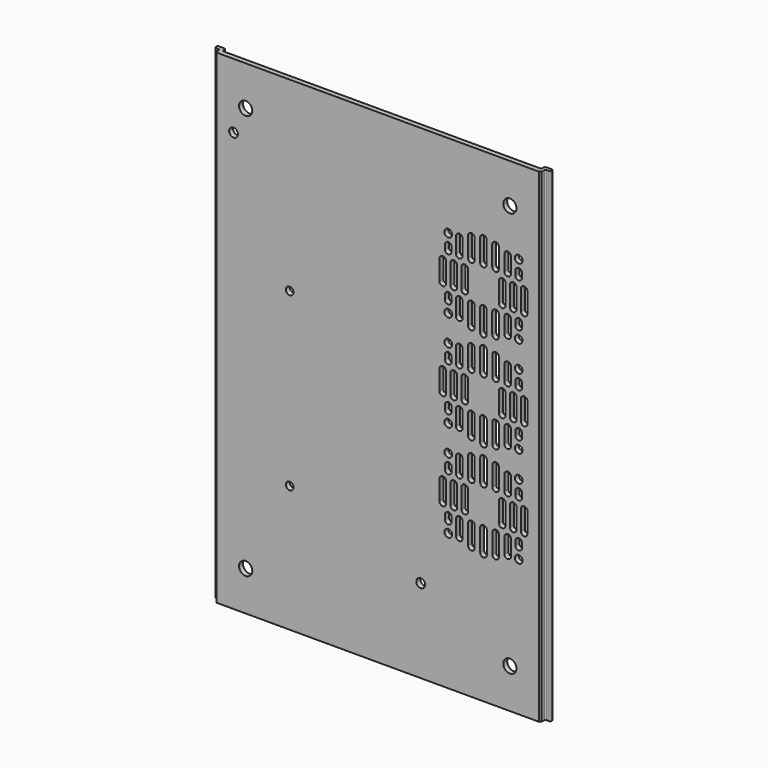
from build123d import *

# Parameters (mm, degrees)
PAD002_DEPTH    = 110
SKETCH005_R     = 2
SKETCH005_R_2   = 1.75
POCKET002_DEPTH = 2.251
SKETCH006_R     = 1.75
POCKET003_DEPTH = 5
SKETCH007_R     = 3
POCKET004_DEPTH = 5


with BuildPart() as part:
    # Sketch002 → Pad002 (new body, symmetric)
    with BuildSketch(Plane.XY):
        with BuildLine():
            Line((-72.340626, 3.292676), (-72.340626, 2.75))
            ThreePointArc((-72.340626, 2.75), (-72.194179, 2.396447), (-71.840626, 2.25))
            Line((-71.840626, 2.25), (71.960626, 2.25))
            ThreePointArc((71.960626, 2.25), (72.314179, 2.396447), (72.460626, 2.75))
            Line((72.460626, 2.75), (72.460626, 3.292676))
            ThreePointArc((73.460626, 4.292676), (72.753519, 3.999783), (72.460626, 3.292676))
            Line((73.460626, 4.292676), (75.76208, 4.292676))
            ThreePointArc((76.26208, 3.792676), (76.115633, 4.14623), (75.76208, 4.292676))
            Line((76.26208, 3.792676), (76.26208, 3.150519))
            ThreePointArc((75.76208, 2.650519), (76.115633, 2.796966), (76.26208, 3.150519))
            Line((75.76208, 2.650519), (74.460626, 2.650519))
            ThreePointArc((74.460626, 2.650519), (74.107073, 2.504072), (73.960626, 2.150519))
            Line((73.960626, 2.150519), (73.960626, 0.635))
            ThreePointArc((73.960626, 0.635), (73.511613, 0.449013), (73.325626, 0))
            Line((73.325626, 0), (-73.205626, 0))
            ThreePointArc((-73.205626, 0), (-73.391613, 0.449013), (-73.840626, 0.635))
            Line((-73.840626, 0.635), (-73.840626, 2.150519))
            ThreePointArc((-73.840626, 2.150519), (-73.987073, 2.504072), (-74.340626, 2.650519))
            Line((-74.340626, 2.650519), (-75.64208, 2.650519))
            ThreePointArc((-76.14208, 3.150519), (-75.995633, 2.796966), (-75.64208, 2.650519))
            Line((-76.14208, 3.150519), (-76.14208, 3.792676))
            ThreePointArc((-75.64208, 4.292676), (-75.995633, 4.14623), (-76.14208, 3.792676))
            Line((-75.64208, 4.292676), (-73.340626, 4.292676))
            ThreePointArc((-72.340626, 3.292676), (-72.633519, 3.999783), (-73.340626, 4.292676))
        make_face()
    extrude(amount=PAD002_DEPTH, both=True)

    # Sketch005 (on Face3 of Pad002) → Pocket002 (cut, through all)
    with BuildSketch(Plane(origin=(0, 2.25, 0), x_dir=(-1, 0, 0), z_dir=(0, 1, 0))):
        with Locations((-19.5, -72)):
            Circle(SKETCH005_R)
        with Locations((65.5, 80.5)):
            Circle(SKETCH005_R)
        with Locations((40, -52.5)):
            Circle(SKETCH005_R_2)
        with Locations((40, 25.5)):
            Circle(SKETCH005_R_2)
    extrude(amount=-POCKET002_DEPTH, mode=Mode.SUBTRACT)

    # Sketch006 (on Face7 of Pocket002) → Pocket003 (cut)
    with BuildSketch(Plane(origin=(0, 2.25, 0), x_dir=(-1, 0, 0), z_dir=(0, 1, 0))):
        with Locations((-64, 72)):
            Circle(SKETCH006_R)
        with Locations((-32, 72)):
            Circle(SKETCH006_R)
        with Locations((-32, 40)):
            Circle(SKETCH006_R)
        with Locations((-64, 40)):
            Circle(SKETCH006_R)
        with Locations((-64.016083, 28)):
            Circle(SKETCH006_R)
        with Locations((-32.016083, 28)):
            Circle(SKETCH006_R)
        with Locations((-32.016083, -4)):
            Circle(SKETCH006_R)
        with Locations((-64.016083, -4)):
            Circle(SKETCH006_R)
        with Locations((-64.032166, -16)):
            Circle(SKETCH006_R)
        with Locations((-32.032166, -16)):
            Circle(SKETCH006_R)
        with Locations((-32.032166, -48)):
            Circle(SKETCH006_R)
        with Locations((-64.032166, -48)):
            Circle(SKETCH006_R)
        with BuildLine():
            ThreePointArc((-65, 60.5), (-66.5, 62), (-68, 60.5))
            Line((-68, 60.5), (-68, 51.5))
            ThreePointArc((-68, 51.5), (-66.5, 50), (-65, 51.5))
            Line((-65, 60.5), (-65, 51.5))
        make_face()
        with BuildLine():
            ThreePointArc((-60, 60.5), (-61.5, 62), (-63, 60.5))
            Line((-63, 60.5), (-63, 51.5))
            ThreePointArc((-63, 51.5), (-61.5, 50), (-60, 51.5))
            Line((-60, 60.5), (-60, 51.5))
        make_face()
        with BuildLine():
            ThreePointArc((-55, 60.5), (-56.5, 62), (-58, 60.5))
            Line((-58, 60.5), (-58, 51.5))
            ThreePointArc((-58, 51.5), (-56.5, 50), (-55, 51.5))
            Line((-55, 60.5), (-55, 51.5))
        make_face()
        with BuildLine():
            ThreePointArc((-38, 60.5), (-39.5, 62), (-41, 60.5))
            Line((-41, 60.5), (-41, 51.5))
            ThreePointArc((-41, 51.5), (-39.5, 50), (-38, 51.5))
            Line((-38, 60.5), (-38, 51.5))
        make_face()
        with BuildLine():
            ThreePointArc((-33, 60.5), (-34.5, 62), (-36, 60.5))
            Line((-36, 60.5), (-36, 51.5))
            ThreePointArc((-36, 51.5), (-34.5, 50), (-33, 51.5))
            Line((-33, 60.5), (-33, 51.5))
        make_face()
        with BuildLine():
            ThreePointArc((-28, 60.5), (-29.5, 62), (-31, 60.5))
            Line((-31, 60.5), (-31, 51.5))
            ThreePointArc((-31, 51.5), (-29.5, 50), (-28, 51.5))
            Line((-28, 60.5), (-28, 51.5))
        make_face()
        with BuildLine():
            ThreePointArc((-62.5, 47), (-64, 48.5), (-65.5, 47))
            Line((-65.5, 47), (-65.5, 45))
            ThreePointArc((-65.5, 45), (-64, 43.5), (-62.5, 45))
            Line((-62.5, 47), (-62.5, 45))
        make_face()
        with BuildLine():
            ThreePointArc((-57.5, 47), (-59, 48.5), (-60.5, 47))
            Line((-60.5, 47), (-60.5, 40))
            ThreePointArc((-60.5, 40), (-59, 38.5), (-57.5, 40))
            Line((-57.5, 47), (-57.5, 40))
        make_face()
        with BuildLine():
            ThreePointArc((-52, 47), (-53.5, 48.5), (-55, 47))
            Line((-55, 47), (-55, 38))
            ThreePointArc((-55, 38), (-53.5, 36.5), (-52, 38))
            Line((-52, 47), (-52, 38))
        make_face()
        with BuildLine():
            ThreePointArc((-46.5, 47), (-48, 48.5), (-49.5, 47))
            Line((-49.5, 47), (-49.5, 37))
            ThreePointArc((-49.5, 37), (-48, 35.5), (-46.5, 37))
            Line((-46.5, 47), (-46.5, 37))
        make_face()
        with BuildLine():
            ThreePointArc((-41, 47), (-42.5, 48.5), (-44, 47))
            Line((-44, 47), (-44, 38))
            ThreePointArc((-44, 38), (-42.5, 36.5), (-41, 38))
            Line((-41, 47), (-41, 38))
        make_face()
        with BuildLine():
            ThreePointArc((-35.5, 47), (-37, 48.5), (-38.5, 47))
            Line((-38.5, 47), (-38.5, 40))
            ThreePointArc((-38.5, 40), (-37, 38.5), (-35.5, 40))
            Line((-35.5, 47), (-35.5, 40))
        make_face()
        with BuildLine():
            ThreePointArc((-30.5, 47), (-32, 48.5), (-33.5, 47))
            Line((-33.5, 47), (-33.5, 45))
            ThreePointArc((-33.5, 45), (-32, 43.5), (-30.5, 45))
            Line((-30.5, 47), (-30.5, 45))
        make_face()
        with BuildLine():
            ThreePointArc((-30.5, 67), (-32, 68.5), (-33.5, 67))
            Line((-33.5, 67), (-33.5, 65))
            ThreePointArc((-33.5, 65), (-32, 63.5), (-30.5, 65))
            Line((-30.5, 67), (-30.5, 65))
        make_face()
        with BuildLine():
            ThreePointArc((-35.5, 72), (-37, 73.5), (-38.5, 72))
            Line((-38.5, 72), (-38.5, 65))
            ThreePointArc((-38.5, 65), (-37, 63.5), (-35.5, 65))
            Line((-35.5, 72), (-35.5, 65))
        make_face()
        with BuildLine():
            ThreePointArc((-41, 74), (-42.5, 75.5), (-44, 74))
            Line((-44, 74), (-44, 65))
            ThreePointArc((-44, 65), (-42.5, 63.5), (-41, 65))
            Line((-41, 74), (-41, 65))
        make_face()
        with BuildLine():
            ThreePointArc((-46.5, 75), (-48, 76.5), (-49.5, 75))
            Line((-49.5, 75), (-49.5, 65))
            ThreePointArc((-49.5, 65), (-48, 63.5), (-46.5, 65))
            Line((-46.5, 75), (-46.5, 65))
        make_face()
        with BuildLine():
            ThreePointArc((-52, 74), (-53.5, 75.5), (-55, 74))
            Line((-55, 74), (-55, 65))
            ThreePointArc((-55, 65), (-53.5, 63.5), (-52, 65))
            Line((-52, 74), (-52, 65))
        make_face()
        with BuildLine():
            ThreePointArc((-57.5, 72), (-59, 73.5), (-60.5, 72))
            Line((-60.5, 72), (-60.5, 65))
            ThreePointArc((-60.5, 65), (-59, 63.5), (-57.5, 65))
            Line((-57.5, 72), (-57.5, 65))
        make_face()
        with BuildLine():
            ThreePointArc((-62.5, 67), (-64, 68.5), (-65.5, 67))
            Line((-65.5, 65), (-65.5, 67))
            ThreePointArc((-65.5, 65), (-64, 63.5), (-62.5, 65))
            Line((-62.5, 67), (-62.5, 65))
        make_face()
        with BuildLine():
            ThreePointArc((-65.016083, 16.5), (-66.516083, 18), (-68.016083, 16.5))
            Line((-68.016083, 16.5), (-68.016083, 7.5))
            ThreePointArc((-68.016083, 7.5), (-66.516083, 6), (-65.016083, 7.5))
            Line((-65.016083, 16.5), (-65.016083, 7.5))
        make_face()
        with BuildLine():
            ThreePointArc((-60.016083, 16.5), (-61.516083, 18), (-63.016083, 16.5))
            Line((-63.016083, 16.5), (-63.016083, 7.5))
            ThreePointArc((-63.016083, 7.5), (-61.516083, 6), (-60.016083, 7.5))
            Line((-60.016083, 16.5), (-60.016083, 7.5))
        make_face()
        with BuildLine():
            ThreePointArc((-55.016083, 16.5), (-56.516083, 18), (-58.016083, 16.5))
            Line((-58.016083, 16.5), (-58.016083, 7.5))
            ThreePointArc((-58.016083, 7.5), (-56.516083, 6), (-55.016083, 7.5))
            Line((-55.016083, 16.5), (-55.016083, 7.5))
        make_face()
        with BuildLine():
            ThreePointArc((-38.016083, 16.5), (-39.516083, 18), (-41.016083, 16.5))
            Line((-41.016083, 16.5), (-41.016083, 7.5))
            ThreePointArc((-41.016083, 7.5), (-39.516083, 6), (-38.016083, 7.5))
            Line((-38.016083, 16.5), (-38.016083, 7.5))
        make_face()
        with BuildLine():
            ThreePointArc((-33.016083, 16.5), (-34.516083, 18), (-36.016083, 16.5))
            Line((-36.016083, 16.5), (-36.016083, 7.5))
            ThreePointArc((-36.016083, 7.5), (-34.516083, 6), (-33.016083, 7.5))
            Line((-33.016083, 16.5), (-33.016083, 7.5))
        make_face()
        with BuildLine():
            ThreePointArc((-28.016083, 16.5), (-29.516083, 18), (-31.016083, 16.5))
            Line((-31.016083, 16.5), (-31.016083, 7.5))
            ThreePointArc((-31.016083, 7.5), (-29.516083, 6), (-28.016083, 7.5))
            Line((-28.016083, 16.5), (-28.016083, 7.5))
        make_face()
        with BuildLine():
            ThreePointArc((-62.516083, 3), (-64.016083, 4.5), (-65.516083, 3))
            Line((-65.516083, 3), (-65.516083, 1))
            ThreePointArc((-65.516083, 1), (-64.016083, -0.5), (-62.516083, 1))
            Line((-62.516083, 3), (-62.516083, 1))
        make_face()
        with BuildLine():
            ThreePointArc((-57.516083, 3), (-59.016083, 4.5), (-60.516083, 3))
            Line((-60.516083, 3), (-60.516083, -4))
            ThreePointArc((-60.516083, -4), (-59.016083, -5.5), (-57.516083, -4))
            Line((-57.516083, 3), (-57.516083, -4))
        make_face()
        with BuildLine():
            ThreePointArc((-52.016083, 3), (-53.516083, 4.5), (-55.016083, 3))
            Line((-55.016083, 3), (-55.016083, -6))
            ThreePointArc((-55.016083, -6), (-53.516083, -7.5), (-52.016083, -6))
            Line((-52.016083, 3), (-52.016083, -6))
        make_face()
        with BuildLine():
            ThreePointArc((-46.516083, 3), (-48.016083, 4.5), (-49.516083, 3))
            Line((-49.516083, 3), (-49.516083, -7))
            ThreePointArc((-49.516083, -7), (-48.016083, -8.5), (-46.516083, -7))
            Line((-46.516083, 3), (-46.516083, -7))
        make_face()
        with BuildLine():
            ThreePointArc((-41.016083, 3), (-42.516083, 4.5), (-44.016083, 3))
            Line((-44.016083, 3), (-44.016083, -6))
            ThreePointArc((-44.016083, -6), (-42.516083, -7.5), (-41.016083, -6))
            Line((-41.016083, 3), (-41.016083, -6))
        make_face()
        with BuildLine():
            ThreePointArc((-35.516083, 3), (-37.016083, 4.5), (-38.516083, 3))
            Line((-38.516083, 3), (-38.516083, -4))
            ThreePointArc((-38.516083, -4), (-37.016083, -5.5), (-35.516083, -4))
            Line((-35.516083, 3), (-35.516083, -4))
        make_face()
        with BuildLine():
            ThreePointArc((-30.516083, 3), (-32.016083, 4.5), (-33.516083, 3))
            Line((-33.516083, 3), (-33.516083, 1))
            ThreePointArc((-33.516083, 1), (-32.016083, -0.5), (-30.516083, 1))
            Line((-30.516083, 3), (-30.516083, 1))
        make_face()
        with BuildLine():
            ThreePointArc((-30.516083, 23), (-32.016083, 24.5), (-33.516083, 23))
            Line((-33.516083, 23), (-33.516083, 21))
            ThreePointArc((-33.516083, 21), (-32.016083, 19.5), (-30.516083, 21))
            Line((-30.516083, 23), (-30.516083, 21))
        make_face()
        with BuildLine():
            ThreePointArc((-35.516083, 28), (-37.016083, 29.5), (-38.516083, 28))
            Line((-38.516083, 28), (-38.516083, 21))
            ThreePointArc((-38.516083, 21), (-37.016083, 19.5), (-35.516083, 21))
            Line((-35.516083, 28), (-35.516083, 21))
        make_face()
        with BuildLine():
            ThreePointArc((-41.016083, 30), (-42.516083, 31.5), (-44.016083, 30))
            Line((-44.016083, 30), (-44.016083, 21))
            ThreePointArc((-44.016083, 21), (-42.516083, 19.5), (-41.016083, 21))
            Line((-41.016083, 30), (-41.016083, 21))
        make_face()
        with BuildLine():
            ThreePointArc((-46.516083, 31), (-48.016083, 32.5), (-49.516083, 31))
            Line((-49.516083, 31), (-49.516083, 21))
            ThreePointArc((-49.516083, 21), (-48.016083, 19.5), (-46.516083, 21))
            Line((-46.516083, 31), (-46.516083, 21))
        make_face()
        with BuildLine():
            ThreePointArc((-52.016083, 30), (-53.516083, 31.5), (-55.016083, 30))
            Line((-55.016083, 30), (-55.016083, 21))
            ThreePointArc((-55.016083, 21), (-53.516083, 19.5), (-52.016083, 21))
            Line((-52.016083, 30), (-52.016083, 21))
        make_face()
        with BuildLine():
            ThreePointArc((-57.516083, 28), (-59.016083, 29.5), (-60.516083, 28))
            Line((-60.516083, 28), (-60.516083, 21))
            ThreePointArc((-60.516083, 21), (-59.016083, 19.5), (-57.516083, 21))
            Line((-57.516083, 28), (-57.516083, 21))
        make_face()
        with BuildLine():
            ThreePointArc((-62.516083, 23), (-64.016083, 24.5), (-65.516083, 23))
            Line((-65.516083, 21), (-65.516083, 23))
            ThreePointArc((-65.516083, 21), (-64.016083, 19.5), (-62.516083, 21))
            Line((-62.516083, 23), (-62.516083, 21))
        make_face()
        with BuildLine():
            ThreePointArc((-65.032166, -27.5), (-66.532166, -26), (-68.032166, -27.5))
            Line((-68.032166, -27.5), (-68.032166, -36.5))
            ThreePointArc((-68.032166, -36.5), (-66.532166, -38), (-65.032166, -36.5))
            Line((-65.032166, -27.5), (-65.032166, -36.5))
        make_face()
        with BuildLine():
            ThreePointArc((-60.032166, -27.5), (-61.532166, -26), (-63.032166, -27.5))
            Line((-63.032166, -27.5), (-63.032166, -36.5))
            ThreePointArc((-63.032166, -36.5), (-61.532166, -38), (-60.032166, -36.5))
            Line((-60.032166, -27.5), (-60.032166, -36.5))
        make_face()
        with BuildLine():
            ThreePointArc((-55.032166, -27.5), (-56.532166, -26), (-58.032166, -27.5))
            Line((-58.032166, -27.5), (-58.032166, -36.5))
            ThreePointArc((-58.032166, -36.5), (-56.532166, -38), (-55.032166, -36.5))
            Line((-55.032166, -27.5), (-55.032166, -36.5))
        make_face()
        with BuildLine():
            ThreePointArc((-38.032166, -27.5), (-39.532166, -26), (-41.032166, -27.5))
            Line((-41.032166, -27.5), (-41.032166, -36.5))
            ThreePointArc((-41.032166, -36.5), (-39.532166, -38), (-38.032166, -36.5))
            Line((-38.032166, -27.5), (-38.032166, -36.5))
        make_face()
        with BuildLine():
            ThreePointArc((-33.032166, -27.5), (-34.532166, -26), (-36.032166, -27.5))
            Line((-36.032166, -27.5), (-36.032166, -36.5))
            ThreePointArc((-36.032166, -36.5), (-34.532166, -38), (-33.032166, -36.5))
            Line((-33.032166, -27.5), (-33.032166, -36.5))
        make_face()
        with BuildLine():
            ThreePointArc((-28.032166, -27.5), (-29.532166, -26), (-31.032166, -27.5))
            Line((-31.032166, -27.5), (-31.032166, -36.5))
            ThreePointArc((-31.032166, -36.5), (-29.532166, -38), (-28.032166, -36.5))
            Line((-28.032166, -27.5), (-28.032166, -36.5))
        make_face()
        with BuildLine():
            ThreePointArc((-62.532166, -41), (-64.032166, -39.5), (-65.532166, -41))
            Line((-65.532166, -41), (-65.532166, -43))
            ThreePointArc((-65.532166, -43), (-64.032166, -44.5), (-62.532166, -43))
            Line((-62.532166, -41), (-62.532166, -43))
        make_face()
        with BuildLine():
            ThreePointArc((-57.532166, -41), (-59.032166, -39.5), (-60.532166, -41))
            Line((-60.532166, -41), (-60.532166, -48))
            ThreePointArc((-60.532166, -48), (-59.032166, -49.5), (-57.532166, -48))
            Line((-57.532166, -41), (-57.532166, -48))
        make_face()
        with BuildLine():
            ThreePointArc((-52.032166, -41), (-53.532166, -39.5), (-55.032166, -41))
            Line((-55.032166, -41), (-55.032166, -50))
            ThreePointArc((-55.032166, -50), (-53.532166, -51.5), (-52.032166, -50))
            Line((-52.032166, -41), (-52.032166, -50))
        make_face()
        with BuildLine():
            ThreePointArc((-46.532166, -41), (-48.032166, -39.5), (-49.532166, -41))
            Line((-49.532166, -41), (-49.532166, -51))
            ThreePointArc((-49.532166, -51), (-48.032166, -52.5), (-46.532166, -51))
            Line((-46.532166, -41), (-46.532166, -51))
        make_face()
        with BuildLine():
            ThreePointArc((-41.032166, -41), (-42.532166, -39.5), (-44.032166, -41))
            Line((-44.032166, -41), (-44.032166, -50))
            ThreePointArc((-44.032166, -50), (-42.532166, -51.5), (-41.032166, -50))
            Line((-41.032166, -41), (-41.032166, -50))
        make_face()
        with BuildLine():
            ThreePointArc((-35.532166, -41), (-37.032166, -39.5), (-38.532166, -41))
            Line((-38.532166, -41), (-38.532166, -48))
            ThreePointArc((-38.532166, -48), (-37.032166, -49.5), (-35.532166, -48))
            Line((-35.532166, -41), (-35.532166, -48))
        make_face()
        with BuildLine():
            ThreePointArc((-30.532166, -41), (-32.032166, -39.5), (-33.532166, -41))
            Line((-33.532166, -41), (-33.532166, -43))
            ThreePointArc((-33.532166, -43), (-32.032166, -44.5), (-30.532166, -43))
            Line((-30.532166, -41), (-30.532166, -43))
        make_face()
        with BuildLine():
            ThreePointArc((-30.532166, -21), (-32.032166, -19.5), (-33.532166, -21))
            Line((-33.532166, -21), (-33.532166, -23))
            ThreePointArc((-33.532166, -23), (-32.032166, -24.5), (-30.532166, -23))
            Line((-30.532166, -21), (-30.532166, -23))
        make_face()
        with BuildLine():
            ThreePointArc((-35.532166, -16), (-37.032166, -14.5), (-38.532166, -16))
            Line((-38.532166, -16), (-38.532166, -23))
            ThreePointArc((-38.532166, -23), (-37.032166, -24.5), (-35.532166, -23))
            Line((-35.532166, -16), (-35.532166, -23))
        make_face()
        with BuildLine():
            ThreePointArc((-41.032166, -14), (-42.532166, -12.5), (-44.032166, -14))
            Line((-44.032166, -14), (-44.032166, -23))
            ThreePointArc((-44.032166, -23), (-42.532166, -24.5), (-41.032166, -23))
            Line((-41.032166, -14), (-41.032166, -23))
        make_face()
        with BuildLine():
            ThreePointArc((-46.532166, -13), (-48.032166, -11.5), (-49.532166, -13))
            Line((-49.532166, -13), (-49.532166, -23))
            ThreePointArc((-49.532166, -23), (-48.032166, -24.5), (-46.532166, -23))
            Line((-46.532166, -13), (-46.532166, -23))
        make_face()
        with BuildLine():
            ThreePointArc((-52.032166, -14), (-53.532166, -12.5), (-55.032166, -14))
            Line((-55.032166, -14), (-55.032166, -23))
            ThreePointArc((-55.032166, -23), (-53.532166, -24.5), (-52.032166, -23))
            Line((-52.032166, -14), (-52.032166, -23))
        make_face()
        with BuildLine():
            ThreePointArc((-57.532166, -16), (-59.032166, -14.5), (-60.532166, -16))
            Line((-60.532166, -16), (-60.532166, -23))
            ThreePointArc((-60.532166, -23), (-59.032166, -24.5), (-57.532166, -23))
            Line((-57.532166, -16), (-57.532166, -23))
        make_face()
        with BuildLine():
            ThreePointArc((-62.532166, -21), (-64.032166, -19.5), (-65.532166, -21))
            Line((-65.532166, -23), (-65.532166, -21))
            ThreePointArc((-65.532166, -23), (-64.032166, -24.5), (-62.532166, -23))
            Line((-62.532166, -21), (-62.532166, -23))
        make_face()
    extrude(amount=-POCKET003_DEPTH, mode=Mode.SUBTRACT)

    # Sketch007 (on Face7 of Pocket003) → Pocket004 (cut)
    with BuildSketch(Plane(origin=(0, 2.25, 0), x_dir=(-1, 0, 0), z_dir=(0, 1, 0))):
        with Locations((-60, 92)):
            Circle(SKETCH007_R)
        with Locations((60, 92)):
            Circle(SKETCH007_R)
        with Locations((-60, -92)):
            Circle(SKETCH007_R)
        with Locations((60, -92)):
            Circle(SKETCH007_R)
    extrude(amount=-POCKET004_DEPTH, mode=Mode.SUBTRACT)


solid = part.part
